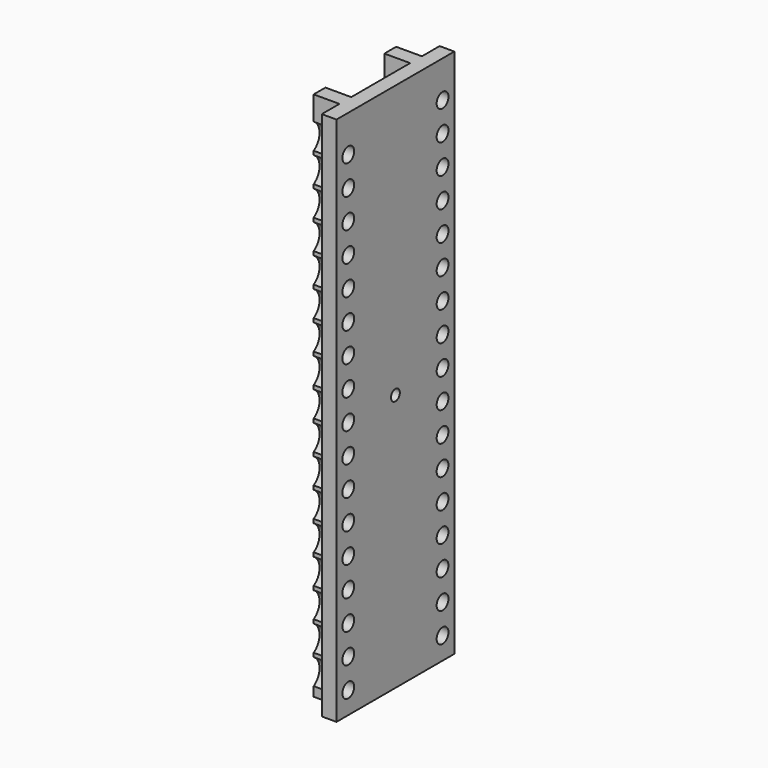
from build123d import *

# Parameters (mm, degrees)
PAD039_DEPTH            = 144
SKETCH079_W             = 40
SKETCH079_H             = 144
PAD040_DEPTH            = 4
SKETCH080_R             = 1.5
POCKET038_DEPTH         = 5
SKETCH081_R             = 2
POCKET039_DEPTH         = 4
SKETCH082_R             = 4
POCKET040_DEPTH         = 7
BODY022_PLACEMENT_ANGLE = 90


with BuildPart() as leftback002:
    # Sketch078 → Pad039 (new body)
    with BuildSketch(Plane.XZ):
        Polygon((0, 0), (0, 10), (7, 10), (7, 14), (-4, 14), (-4, -14), (7, -14), (7, -10), (0, -10), align=None)
    extrude(amount=PAD039_DEPTH)

    # Sketch079 (on Face4 of Pad039) → Pad040 (join)
    with BuildSketch(Plane(origin=(-4, 0, 0), x_dir=(0, 0, -1), z_dir=(-1, 0, 0))):
        with Locations((0, 72)):
            Rectangle(SKETCH079_W, SKETCH079_H)
    extrude(amount=-PAD040_DEPTH)

    # Sketch080 (on Face14 of Pad040) → Pocket038 (cut)
    with BuildSketch(Plane(origin=(-4, 0, 0), x_dir=(0, 0, -1), z_dir=(-1, 0, 0))):
        with Locations((0, 74)):
            Circle(SKETCH080_R)
    extrude(amount=-POCKET038_DEPTH, mode=Mode.SUBTRACT)

    # Sketch081 (on Face13 of Pocket038) → Pocket039 (cut)
    with BuildSketch(Plane(origin=(-4, 0, 0), x_dir=(0, 0, -1), z_dir=(-1, 0, 0))):
        with Locations((-16, 10)):
            Circle(SKETCH081_R)
        with Locations((-16, 18)):
            Circle(SKETCH081_R)
        with Locations((-16, 26)):
            Circle(SKETCH081_R)
        with Locations((-16, 34)):
            Circle(SKETCH081_R)
        with Locations((-16, 42)):
            Circle(SKETCH081_R)
        with Locations((-16, 50)):
            Circle(SKETCH081_R)
        with Locations((-16, 58)):
            Circle(SKETCH081_R)
        with Locations((-16, 66)):
            Circle(SKETCH081_R)
        with Locations((-16, 138)):
            Circle(SKETCH081_R)
        with Locations((-16, 130)):
            Circle(SKETCH081_R)
        with Locations((-16, 122)):
            Circle(SKETCH081_R)
        with Locations((-16, 114)):
            Circle(SKETCH081_R)
        with Locations((-16, 106)):
            Circle(SKETCH081_R)
        with Locations((-16, 98)):
            Circle(SKETCH081_R)
        with Locations((-16, 90)):
            Circle(SKETCH081_R)
        with Locations((-16, 82)):
            Circle(SKETCH081_R)
        with Locations((-16, 74)):
            Circle(SKETCH081_R)
        with Locations((16, 138)):
            Circle(SKETCH081_R)
        with Locations((16, 130)):
            Circle(SKETCH081_R)
        with Locations((16, 122)):
            Circle(SKETCH081_R)
        with Locations((16, 114)):
            Circle(SKETCH081_R)
        with Locations((16, 106)):
            Circle(SKETCH081_R)
        with Locations((16, 98)):
            Circle(SKETCH081_R)
        with Locations((16, 90)):
            Circle(SKETCH081_R)
        with Locations((16, 82)):
            Circle(SKETCH081_R)
        with Locations((16, 74)):
            Circle(SKETCH081_R)
        with Locations((16, 66)):
            Circle(SKETCH081_R)
        with Locations((16, 58)):
            Circle(SKETCH081_R)
        with Locations((16, 50)):
            Circle(SKETCH081_R)
        with Locations((16, 42)):
            Circle(SKETCH081_R)
        with Locations((16, 34)):
            Circle(SKETCH081_R)
        with Locations((16, 26)):
            Circle(SKETCH081_R)
        with Locations((16, 18)):
            Circle(SKETCH081_R)
        with Locations((16, 10)):
            Circle(SKETCH081_R)
    extrude(amount=-POCKET039_DEPTH, mode=Mode.SUBTRACT)

    # Sketch082 (on Face15 of Pocket038) → Pocket040 (cut)
    with BuildSketch(Plane(origin=(0, 0, 0), x_dir=(0, 0, 1), z_dir=(1, 0, 0))):
        with Locations((-16, 10)):
            Circle(SKETCH082_R)
        with Locations((-16, 18)):
            Circle(SKETCH082_R)
        with Locations((-16, 26)):
            Circle(SKETCH082_R)
        with Locations((-16, 34)):
            Circle(SKETCH082_R)
        with Locations((-16, 42)):
            Circle(SKETCH082_R)
        with Locations((-16, 50)):
            Circle(SKETCH082_R)
        with Locations((-16, 58)):
            Circle(SKETCH082_R)
        with Locations((-16, 66)):
            Circle(SKETCH082_R)
        with Locations((-16, 138)):
            Circle(SKETCH082_R)
        with Locations((-16, 130)):
            Circle(SKETCH082_R)
        with Locations((-16, 122)):
            Circle(SKETCH082_R)
        with Locations((-16, 114)):
            Circle(SKETCH082_R)
        with Locations((-16, 106)):
            Circle(SKETCH082_R)
        with Locations((-16, 98)):
            Circle(SKETCH082_R)
        with Locations((-16, 90)):
            Circle(SKETCH082_R)
        with Locations((-16, 82)):
            Circle(SKETCH082_R)
        with Locations((-16, 74)):
            Circle(SKETCH082_R)
        with Locations((16, 138)):
            Circle(SKETCH082_R)
        with Locations((16, 130)):
            Circle(SKETCH082_R)
        with Locations((16, 122)):
            Circle(SKETCH082_R)
        with Locations((16, 114)):
            Circle(SKETCH082_R)
        with Locations((16, 106)):
            Circle(SKETCH082_R)
        with Locations((16, 98)):
            Circle(SKETCH082_R)
        with Locations((16, 90)):
            Circle(SKETCH082_R)
        with Locations((16, 82)):
            Circle(SKETCH082_R)
        with Locations((16, 74)):
            Circle(SKETCH082_R)
        with Locations((16, 66)):
            Circle(SKETCH082_R)
        with Locations((16, 58)):
            Circle(SKETCH082_R)
        with Locations((16, 50)):
            Circle(SKETCH082_R)
        with Locations((16, 42)):
            Circle(SKETCH082_R)
        with Locations((16, 34)):
            Circle(SKETCH082_R)
        with Locations((16, 26)):
            Circle(SKETCH082_R)
        with Locations((16, 18)):
            Circle(SKETCH082_R)
        with Locations((16, 10)):
            Circle(SKETCH082_R)
    extrude(amount=POCKET040_DEPTH, mode=Mode.SUBTRACT)


with BuildPart() as leftback002_1:
    # Body022 placement: moved
    add(leftback002.part.moved(Location((-136, -275.5, 144))).rotate(Axis((-136, -275.5, 144), (1, 0, 0)), BODY022_PLACEMENT_ANGLE))


with BuildPart() as rightback002:
    # Part__Mirroring010: instance of LeftBack002
    add(leftback002_1.part.mirror(Plane(origin=(0, 0, 0), x_dir=(0, -1, 0), z_dir=(1, 0, 0))))


solid = rightback002.part
